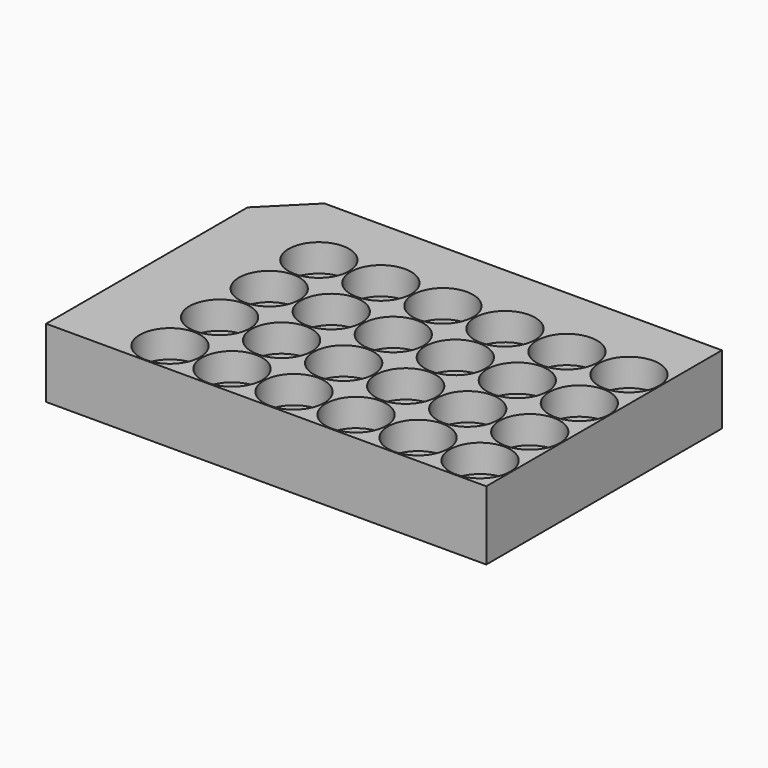
from build123d import *

# Parameters (mm, degrees)
F0_R          = 3.1623
F1_DEPTH      = 1
F1_DEPTH_BACK = 1
F2_R          = 4.3815
F3_DEPTH      = 5
F3_DEPTH_BACK = 5
F4_W          = 70.6903263927
F4_H          = 43.5684286058
F5_DEPTH      = 25.4
F5_DEPTH_BACK = 25.4


with BuildPart() as f1:
    # F0 (on Top) → F1 (new body, two sides)
    with BuildSketch(Plane.XY) as f1_sk:
        Polygon((-57.6786232765, 42.74), (-63.875, 36.5436232765), (-63.875, -36.5436232765), (-57.6786232765, -42.74), (63.875, -42.74), (63.875, 42.74), align=None)
        with Locations((-49.495, -31.5)):
            Circle(F0_R, mode=Mode.SUBTRACT)
        with Locations((-49.495, -22.5)):
            Circle(F0_R, mode=Mode.SUBTRACT)
        with Locations((-40.495, -31.5)):
            Circle(F0_R, mode=Mode.SUBTRACT)
        with Locations((-40.495, -22.5)):
            Circle(F0_R, mode=Mode.SUBTRACT)
        with Locations((-31.495, -31.5)):
            Circle(F0_R, mode=Mode.SUBTRACT)
        with Locations((-22.495, -31.5)):
            Circle(F0_R, mode=Mode.SUBTRACT)
        with Locations((-31.495, -22.5)):
            Circle(F0_R, mode=Mode.SUBTRACT)
        with Locations((-22.495, -22.5)):
            Circle(F0_R, mode=Mode.SUBTRACT)
        with Locations((-13.495, -31.5)):
            Circle(F0_R, mode=Mode.SUBTRACT)
        with Locations((-4.495, -31.5)):
            Circle(F0_R, mode=Mode.SUBTRACT)
        with Locations((-13.495, -22.5)):
            Circle(F0_R, mode=Mode.SUBTRACT)
        with Locations((-4.495, -22.5)):
            Circle(F0_R, mode=Mode.SUBTRACT)
        with Locations((-49.495, -13.5)):
            Circle(F0_R, mode=Mode.SUBTRACT)
        with Locations((-40.495, -13.5)):
            Circle(F0_R, mode=Mode.SUBTRACT)
        with Locations((-49.495, -4.5)):
            Circle(F0_R, mode=Mode.SUBTRACT)
        with Locations((-40.495, -4.5)):
            Circle(F0_R, mode=Mode.SUBTRACT)
        with Locations((-31.495, -13.5)):
            Circle(F0_R, mode=Mode.SUBTRACT)
        with Locations((-22.495, -13.5)):
            Circle(F0_R, mode=Mode.SUBTRACT)
        with Locations((-13.495, -13.5)):
            Circle(F0_R, mode=Mode.SUBTRACT)
        with Locations((-4.495, -13.5)):
            Circle(F0_R, mode=Mode.SUBTRACT)
        with Locations((-31.495, -4.5)):
            Circle(F0_R, mode=Mode.SUBTRACT)
        with Locations((-22.495, -4.5)):
            Circle(F0_R, mode=Mode.SUBTRACT)
        with Locations((-13.495, -4.5)):
            Circle(F0_R, mode=Mode.SUBTRACT)
        with Locations((-4.495, -4.5)):
            Circle(F0_R, mode=Mode.SUBTRACT)
        with Locations((4.505, -31.5)):
            Circle(F0_R, mode=Mode.SUBTRACT)
        with Locations((13.505, -31.5)):
            Circle(F0_R, mode=Mode.SUBTRACT)
        with Locations((4.505, -22.5)):
            Circle(F0_R, mode=Mode.SUBTRACT)
        with Locations((13.505, -22.5)):
            Circle(F0_R, mode=Mode.SUBTRACT)
        with Locations((22.505, -31.5)):
            Circle(F0_R, mode=Mode.SUBTRACT)
        with Locations((31.505, -31.5)):
            Circle(F0_R, mode=Mode.SUBTRACT)
        with Locations((22.505, -22.5)):
            Circle(F0_R, mode=Mode.SUBTRACT)
        with Locations((31.505, -22.5)):
            Circle(F0_R, mode=Mode.SUBTRACT)
        with Locations((40.505, -31.5)):
            Circle(F0_R, mode=Mode.SUBTRACT)
        with Locations((40.505, -22.5)):
            Circle(F0_R, mode=Mode.SUBTRACT)
        with Locations((49.505, -31.5)):
            Circle(F0_R, mode=Mode.SUBTRACT)
        with Locations((49.505, -22.5)):
            Circle(F0_R, mode=Mode.SUBTRACT)
        with Locations((4.505, -13.5)):
            Circle(F0_R, mode=Mode.SUBTRACT)
        with Locations((13.505, -13.5)):
            Circle(F0_R, mode=Mode.SUBTRACT)
        with Locations((22.505, -13.5)):
            Circle(F0_R, mode=Mode.SUBTRACT)
        with Locations((31.505, -13.5)):
            Circle(F0_R, mode=Mode.SUBTRACT)
        with Locations((4.505, -4.5)):
            Circle(F0_R, mode=Mode.SUBTRACT)
        with Locations((13.505, -4.5)):
            Circle(F0_R, mode=Mode.SUBTRACT)
        with Locations((22.505, -4.5)):
            Circle(F0_R, mode=Mode.SUBTRACT)
        with Locations((31.505, -4.5)):
            Circle(F0_R, mode=Mode.SUBTRACT)
        with Locations((40.505, -13.5)):
            Circle(F0_R, mode=Mode.SUBTRACT)
        with Locations((49.505, -13.5)):
            Circle(F0_R, mode=Mode.SUBTRACT)
        with Locations((40.505, -4.5)):
            Circle(F0_R, mode=Mode.SUBTRACT)
        with Locations((49.505, -4.5)):
            Circle(F0_R, mode=Mode.SUBTRACT)
        with Locations((-49.495, 4.5)):
            Circle(F0_R, mode=Mode.SUBTRACT)
        with Locations((-40.495, 4.5)):
            Circle(F0_R, mode=Mode.SUBTRACT)
        with Locations((-49.495, 13.5)):
            Circle(F0_R, mode=Mode.SUBTRACT)
        with Locations((-40.495, 13.5)):
            Circle(F0_R, mode=Mode.SUBTRACT)
        with Locations((-31.495, 4.5)):
            Circle(F0_R, mode=Mode.SUBTRACT)
        with Locations((-22.495, 4.5)):
            Circle(F0_R, mode=Mode.SUBTRACT)
        with Locations((-13.495, 4.5)):
            Circle(F0_R, mode=Mode.SUBTRACT)
        with Locations((-4.495, 4.5)):
            Circle(F0_R, mode=Mode.SUBTRACT)
        with Locations((-31.495, 13.5)):
            Circle(F0_R, mode=Mode.SUBTRACT)
        with Locations((-22.495, 13.5)):
            Circle(F0_R, mode=Mode.SUBTRACT)
        with Locations((-13.495, 13.5)):
            Circle(F0_R, mode=Mode.SUBTRACT)
        with Locations((-4.495, 13.5)):
            Circle(F0_R, mode=Mode.SUBTRACT)
        with Locations((-49.495, 22.5)):
            Circle(F0_R, mode=Mode.SUBTRACT)
        with Locations((-49.495, 31.5)):
            Circle(F0_R, mode=Mode.SUBTRACT)
        with Locations((-40.495, 22.5)):
            Circle(F0_R, mode=Mode.SUBTRACT)
        with Locations((-40.495, 31.5)):
            Circle(F0_R, mode=Mode.SUBTRACT)
        with Locations((-31.495, 22.5)):
            Circle(F0_R, mode=Mode.SUBTRACT)
        with Locations((-22.495, 22.5)):
            Circle(F0_R, mode=Mode.SUBTRACT)
        with Locations((-31.495, 31.5)):
            Circle(F0_R, mode=Mode.SUBTRACT)
        with Locations((-22.495, 31.5)):
            Circle(F0_R, mode=Mode.SUBTRACT)
        with Locations((-13.495, 22.5)):
            Circle(F0_R, mode=Mode.SUBTRACT)
        with Locations((-4.495, 22.5)):
            Circle(F0_R, mode=Mode.SUBTRACT)
        with Locations((-13.495, 31.5)):
            Circle(F0_R, mode=Mode.SUBTRACT)
        with Locations((-4.495, 31.5)):
            Circle(F0_R, mode=Mode.SUBTRACT)
        with Locations((4.505, 4.5)):
            Circle(F0_R, mode=Mode.SUBTRACT)
        with Locations((13.505, 4.5)):
            Circle(F0_R, mode=Mode.SUBTRACT)
        with Locations((22.505, 4.5)):
            Circle(F0_R, mode=Mode.SUBTRACT)
        with Locations((31.505, 4.5)):
            Circle(F0_R, mode=Mode.SUBTRACT)
        with Locations((4.505, 13.5)):
            Circle(F0_R, mode=Mode.SUBTRACT)
        with Locations((13.505, 13.5)):
            Circle(F0_R, mode=Mode.SUBTRACT)
        with Locations((22.505, 13.5)):
            Circle(F0_R, mode=Mode.SUBTRACT)
        with Locations((31.505, 13.5)):
            Circle(F0_R, mode=Mode.SUBTRACT)
        with Locations((40.505, 4.5)):
            Circle(F0_R, mode=Mode.SUBTRACT)
        with Locations((49.505, 4.5)):
            Circle(F0_R, mode=Mode.SUBTRACT)
        with Locations((40.505, 13.5)):
            Circle(F0_R, mode=Mode.SUBTRACT)
        with Locations((49.505, 13.5)):
            Circle(F0_R, mode=Mode.SUBTRACT)
        with Locations((4.505, 22.5)):
            Circle(F0_R, mode=Mode.SUBTRACT)
        with Locations((13.505, 22.5)):
            Circle(F0_R, mode=Mode.SUBTRACT)
        with Locations((4.505, 31.5)):
            Circle(F0_R, mode=Mode.SUBTRACT)
        with Locations((13.505, 31.5)):
            Circle(F0_R, mode=Mode.SUBTRACT)
        with Locations((22.505, 22.5)):
            Circle(F0_R, mode=Mode.SUBTRACT)
        with Locations((31.505, 22.5)):
            Circle(F0_R, mode=Mode.SUBTRACT)
        with Locations((22.505, 31.5)):
            Circle(F0_R, mode=Mode.SUBTRACT)
        with Locations((31.505, 31.5)):
            Circle(F0_R, mode=Mode.SUBTRACT)
        with Locations((40.505, 22.5)):
            Circle(F0_R, mode=Mode.SUBTRACT)
        with Locations((40.505, 31.5)):
            Circle(F0_R, mode=Mode.SUBTRACT)
        with Locations((49.505, 22.5)):
            Circle(F0_R, mode=Mode.SUBTRACT)
        with Locations((49.505, 31.5)):
            Circle(F0_R, mode=Mode.SUBTRACT)
    extrude(amount=F1_DEPTH)
    extrude(f1_sk.sketch, amount=-F1_DEPTH_BACK)

    # F2 (on Top) → F3 (join, two sides)
    with BuildSketch(Plane.XY) as f3_sk:
        Polygon((63.875, -42.74), (63.875, 42.74), (-57.6786232765, 42.74), (-63.875, 36.5436232765), (-63.875, -36.5436232765), (-57.6786232765, -42.74), align=None)
        with Locations((-49.495, -31.5)):
            Circle(F2_R, mode=Mode.SUBTRACT)
        with Locations((-49.495, -22.5)):
            Circle(F2_R, mode=Mode.SUBTRACT)
        with Locations((-40.495, -31.5)):
            Circle(F2_R, mode=Mode.SUBTRACT)
        with Locations((-40.495, -22.5)):
            Circle(F2_R, mode=Mode.SUBTRACT)
        with Locations((-31.495, -31.5)):
            Circle(F2_R, mode=Mode.SUBTRACT)
        with Locations((-22.495, -31.5)):
            Circle(F2_R, mode=Mode.SUBTRACT)
        with Locations((-31.495, -22.5)):
            Circle(F2_R, mode=Mode.SUBTRACT)
        with Locations((-22.495, -22.5)):
            Circle(F2_R, mode=Mode.SUBTRACT)
        with Locations((-13.495, -31.5)):
            Circle(F2_R, mode=Mode.SUBTRACT)
        with Locations((-4.495, -31.5)):
            Circle(F2_R, mode=Mode.SUBTRACT)
        with Locations((-13.495, -22.5)):
            Circle(F2_R, mode=Mode.SUBTRACT)
        with Locations((-4.495, -22.5)):
            Circle(F2_R, mode=Mode.SUBTRACT)
        with Locations((-49.495, -13.5)):
            Circle(F2_R, mode=Mode.SUBTRACT)
        with Locations((-40.495, -13.5)):
            Circle(F2_R, mode=Mode.SUBTRACT)
        with Locations((-49.495, -4.5)):
            Circle(F2_R, mode=Mode.SUBTRACT)
        with Locations((-40.495, -4.5)):
            Circle(F2_R, mode=Mode.SUBTRACT)
        with Locations((-31.495, -13.5)):
            Circle(F2_R, mode=Mode.SUBTRACT)
        with Locations((-22.495, -13.5)):
            Circle(F2_R, mode=Mode.SUBTRACT)
        with Locations((-13.495, -13.5)):
            Circle(F2_R, mode=Mode.SUBTRACT)
        with Locations((-4.495, -13.5)):
            Circle(F2_R, mode=Mode.SUBTRACT)
        with Locations((-31.495, -4.5)):
            Circle(F2_R, mode=Mode.SUBTRACT)
        with Locations((-22.495, -4.5)):
            Circle(F2_R, mode=Mode.SUBTRACT)
        with Locations((-13.495, -4.5)):
            Circle(F2_R, mode=Mode.SUBTRACT)
        with Locations((-4.495, -4.5)):
            Circle(F2_R, mode=Mode.SUBTRACT)
        with Locations((4.505, -31.5)):
            Circle(F2_R, mode=Mode.SUBTRACT)
        with Locations((13.505, -31.5)):
            Circle(F2_R, mode=Mode.SUBTRACT)
        with Locations((4.505, -22.5)):
            Circle(F2_R, mode=Mode.SUBTRACT)
        with Locations((13.505, -22.5)):
            Circle(F2_R, mode=Mode.SUBTRACT)
        with Locations((22.505, -31.5)):
            Circle(F2_R, mode=Mode.SUBTRACT)
        with Locations((31.505, -31.5)):
            Circle(F2_R, mode=Mode.SUBTRACT)
        with Locations((22.505, -22.5)):
            Circle(F2_R, mode=Mode.SUBTRACT)
        with Locations((31.505, -22.5)):
            Circle(F2_R, mode=Mode.SUBTRACT)
        with Locations((40.505, -31.5)):
            Circle(F2_R, mode=Mode.SUBTRACT)
        with Locations((40.505, -22.5)):
            Circle(F2_R, mode=Mode.SUBTRACT)
        with Locations((49.505, -31.5)):
            Circle(F2_R, mode=Mode.SUBTRACT)
        with Locations((49.505, -22.5)):
            Circle(F2_R, mode=Mode.SUBTRACT)
        with Locations((4.505, -13.5)):
            Circle(F2_R, mode=Mode.SUBTRACT)
        with Locations((13.505, -13.5)):
            Circle(F2_R, mode=Mode.SUBTRACT)
        with Locations((22.505, -13.5)):
            Circle(F2_R, mode=Mode.SUBTRACT)
        with Locations((31.505, -13.5)):
            Circle(F2_R, mode=Mode.SUBTRACT)
        with Locations((4.505, -4.5)):
            Circle(F2_R, mode=Mode.SUBTRACT)
        with Locations((13.505, -4.5)):
            Circle(F2_R, mode=Mode.SUBTRACT)
        with Locations((22.505, -4.5)):
            Circle(F2_R, mode=Mode.SUBTRACT)
        with Locations((31.505, -4.5)):
            Circle(F2_R, mode=Mode.SUBTRACT)
        with Locations((40.505, -13.5)):
            Circle(F2_R, mode=Mode.SUBTRACT)
        with Locations((49.505, -13.5)):
            Circle(F2_R, mode=Mode.SUBTRACT)
        with Locations((40.505, -4.5)):
            Circle(F2_R, mode=Mode.SUBTRACT)
        with Locations((49.505, -4.5)):
            Circle(F2_R, mode=Mode.SUBTRACT)
        with Locations((-49.495, 4.5)):
            Circle(F2_R, mode=Mode.SUBTRACT)
        with Locations((-40.495, 4.5)):
            Circle(F2_R, mode=Mode.SUBTRACT)
        with Locations((-49.495, 13.5)):
            Circle(F2_R, mode=Mode.SUBTRACT)
        with Locations((-40.495, 13.5)):
            Circle(F2_R, mode=Mode.SUBTRACT)
        with Locations((-31.495, 4.5)):
            Circle(F2_R, mode=Mode.SUBTRACT)
        with Locations((-22.495, 4.5)):
            Circle(F2_R, mode=Mode.SUBTRACT)
        with Locations((-13.495, 4.5)):
            Circle(F2_R, mode=Mode.SUBTRACT)
        with Locations((-4.495, 4.5)):
            Circle(F2_R, mode=Mode.SUBTRACT)
        with Locations((-31.495, 13.5)):
            Circle(F2_R, mode=Mode.SUBTRACT)
        with Locations((-22.495, 13.5)):
            Circle(F2_R, mode=Mode.SUBTRACT)
        with Locations((-13.495, 13.5)):
            Circle(F2_R, mode=Mode.SUBTRACT)
        with Locations((-4.495, 13.5)):
            Circle(F2_R, mode=Mode.SUBTRACT)
        with Locations((-49.495, 22.5)):
            Circle(F2_R, mode=Mode.SUBTRACT)
        with Locations((-49.495, 31.5)):
            Circle(F2_R, mode=Mode.SUBTRACT)
        with Locations((-40.495, 22.5)):
            Circle(F2_R, mode=Mode.SUBTRACT)
        with Locations((-40.495, 31.5)):
            Circle(F2_R, mode=Mode.SUBTRACT)
        with Locations((-31.495, 22.5)):
            Circle(F2_R, mode=Mode.SUBTRACT)
        with Locations((-22.495, 22.5)):
            Circle(F2_R, mode=Mode.SUBTRACT)
        with Locations((-31.495, 31.5)):
            Circle(F2_R, mode=Mode.SUBTRACT)
        with Locations((-22.495, 31.5)):
            Circle(F2_R, mode=Mode.SUBTRACT)
        with Locations((-13.495, 22.5)):
            Circle(F2_R, mode=Mode.SUBTRACT)
        with Locations((-4.495, 22.5)):
            Circle(F2_R, mode=Mode.SUBTRACT)
        with Locations((-13.495, 31.5)):
            Circle(F2_R, mode=Mode.SUBTRACT)
        with Locations((-4.495, 31.5)):
            Circle(F2_R, mode=Mode.SUBTRACT)
        with Locations((4.505, 4.5)):
            Circle(F2_R, mode=Mode.SUBTRACT)
        with Locations((13.505, 4.5)):
            Circle(F2_R, mode=Mode.SUBTRACT)
        with Locations((22.505, 4.5)):
            Circle(F2_R, mode=Mode.SUBTRACT)
        with Locations((31.505, 4.5)):
            Circle(F2_R, mode=Mode.SUBTRACT)
        with Locations((4.505, 13.5)):
            Circle(F2_R, mode=Mode.SUBTRACT)
        with Locations((13.505, 13.5)):
            Circle(F2_R, mode=Mode.SUBTRACT)
        with Locations((22.505, 13.5)):
            Circle(F2_R, mode=Mode.SUBTRACT)
        with Locations((31.505, 13.5)):
            Circle(F2_R, mode=Mode.SUBTRACT)
        with Locations((40.505, 4.5)):
            Circle(F2_R, mode=Mode.SUBTRACT)
        with Locations((49.505, 4.5)):
            Circle(F2_R, mode=Mode.SUBTRACT)
        with Locations((40.505, 13.5)):
            Circle(F2_R, mode=Mode.SUBTRACT)
        with Locations((49.505, 13.5)):
            Circle(F2_R, mode=Mode.SUBTRACT)
        with Locations((4.505, 22.5)):
            Circle(F2_R, mode=Mode.SUBTRACT)
        with Locations((13.505, 22.5)):
            Circle(F2_R, mode=Mode.SUBTRACT)
        with Locations((4.505, 31.5)):
            Circle(F2_R, mode=Mode.SUBTRACT)
        with Locations((13.505, 31.5)):
            Circle(F2_R, mode=Mode.SUBTRACT)
        with Locations((22.505, 22.5)):
            Circle(F2_R, mode=Mode.SUBTRACT)
        with Locations((31.505, 22.5)):
            Circle(F2_R, mode=Mode.SUBTRACT)
        with Locations((22.505, 31.5)):
            Circle(F2_R, mode=Mode.SUBTRACT)
        with Locations((31.505, 31.5)):
            Circle(F2_R, mode=Mode.SUBTRACT)
        with Locations((40.505, 22.5)):
            Circle(F2_R, mode=Mode.SUBTRACT)
        with Locations((40.505, 31.5)):
            Circle(F2_R, mode=Mode.SUBTRACT)
        with Locations((49.505, 22.5)):
            Circle(F2_R, mode=Mode.SUBTRACT)
        with Locations((49.505, 31.5)):
            Circle(F2_R, mode=Mode.SUBTRACT)
    extrude(amount=F3_DEPTH)
    extrude(f3_sk.sketch, amount=-F3_DEPTH_BACK)

    # F4 (on Top) → F5 (cut, two sides)
    with BuildSketch(Plane.XY) as f5_sk:
        with Locations((-35.3451631963, -21.7842143029)):
            Rectangle(F4_W, F4_H)
        Polygon((0, 44.0563708544), (0, 0), (0, -43.5684286058), (65.9060776234, -43.5684286058), (65.9060776234, 44.0563708544), align=None)
    extrude(amount=-F5_DEPTH, mode=Mode.SUBTRACT)
    extrude(f5_sk.sketch, amount=F5_DEPTH_BACK, mode=Mode.SUBTRACT)


solid = f1.part
